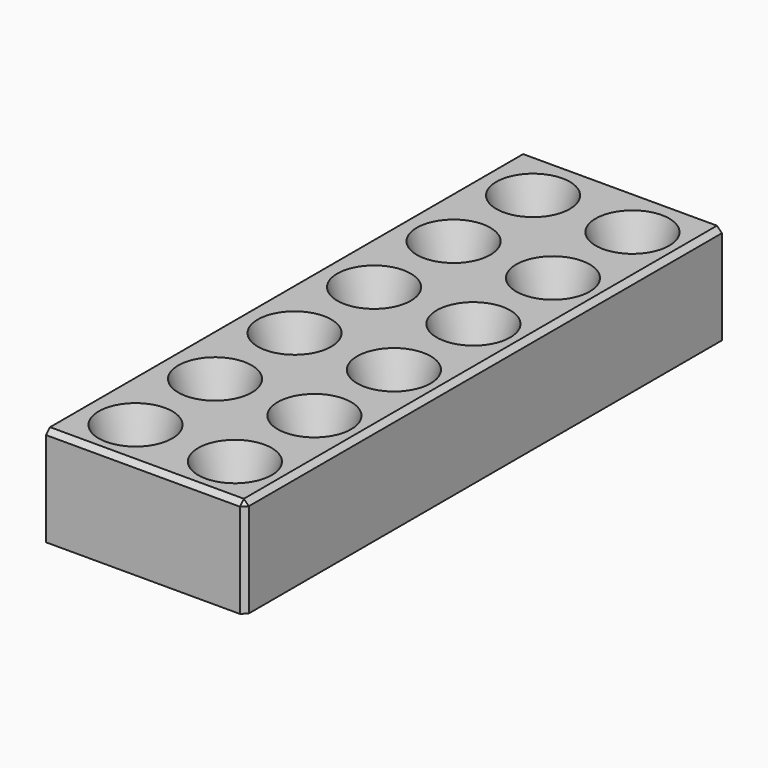
from build123d import *

# Parameters (mm, degrees)
ARRAY_X_COUNT = 2
ARRAY_X_PITCH = 10
ARRAY_Y_COUNT = 6
ARRAY_Y_PITCH = 10
BOX_W         = 20
BOX_H         = 60
BOX_DEPTH     = 10
CHAMFER_SIZE  = 0.5


with BuildPart() as array:
    # Cone → Cone (revolve)
    with BuildSketch(Plane(origin=(5, 5, 1), x_dir=(1, 0, 0), z_dir=(0, -1, 0))):
        Polygon((0, 0), (1, 0), (4, 10), (0, 10), align=None)
    revolve(axis=Axis((5, 5, 1), (0, 0, 1)))

    # Array X: Array ×2


with BuildPart() as array_1:
    add(array.part)
    with Locations(*[(i * ARRAY_X_PITCH, 0, 0) for i in range(1, ARRAY_X_COUNT)]):
        add(array.part)

    # Array Y: Array ×6


with BuildPart() as array_2:
    add(array_1.part)
    with Locations(*[(0, i * ARRAY_Y_PITCH, 0) for i in range(1, ARRAY_Y_COUNT)]):
        add(array_1.part)


with BuildPart() as chamfer_body:
    # Box → Box (new body)
    with BuildSketch(Plane.XY):
        with Locations((10, 30)):
            Rectangle(BOX_W, BOX_H)
    extrude(amount=BOX_DEPTH)

    # Cut: cut Array
    add(array_2.part, mode=Mode.SUBTRACT)

    # Chamfer
    chamfer_edges = [chamfer_body.edges().sort_by_distance(p)[0] for p in [
        (20, 0, 5),
        (10, 0, 10),
        (20, 30, 10),
    ]]
    chamfer(chamfer_edges, length=CHAMFER_SIZE)


solid = chamfer_body.part
